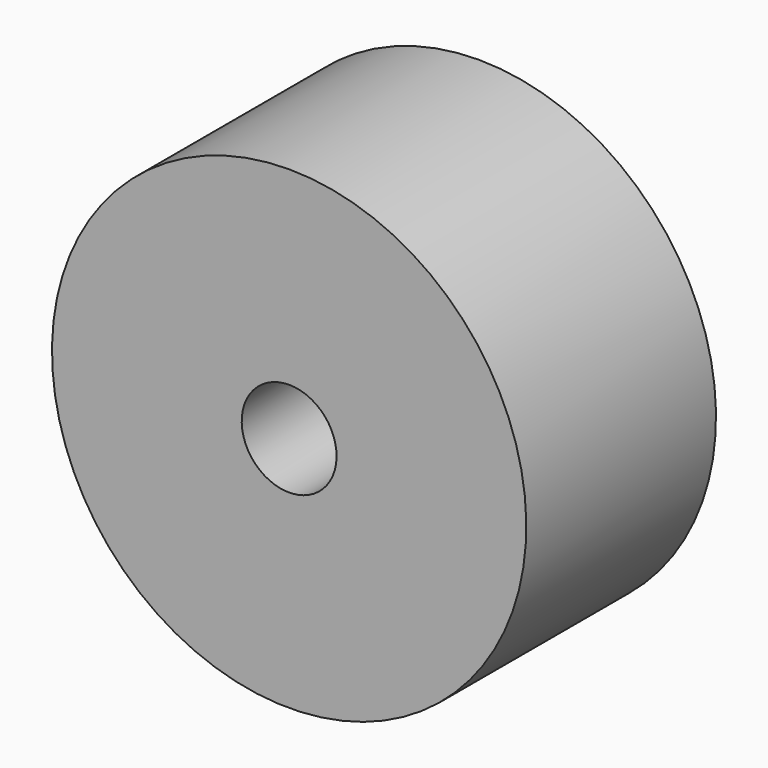
from build123d import *


with BuildPart() as f1:
    # F0 (on Right) → F1 (revolve)
    with BuildSketch(Plane.YZ):
        Polygon((4, 5), (0, 5), (0, 1), (4, 1), (5, 5), align=None)
    revolve(axis=Axis((0, -2.734288, 0), (0, 1, 0)))


solid = f1.part
